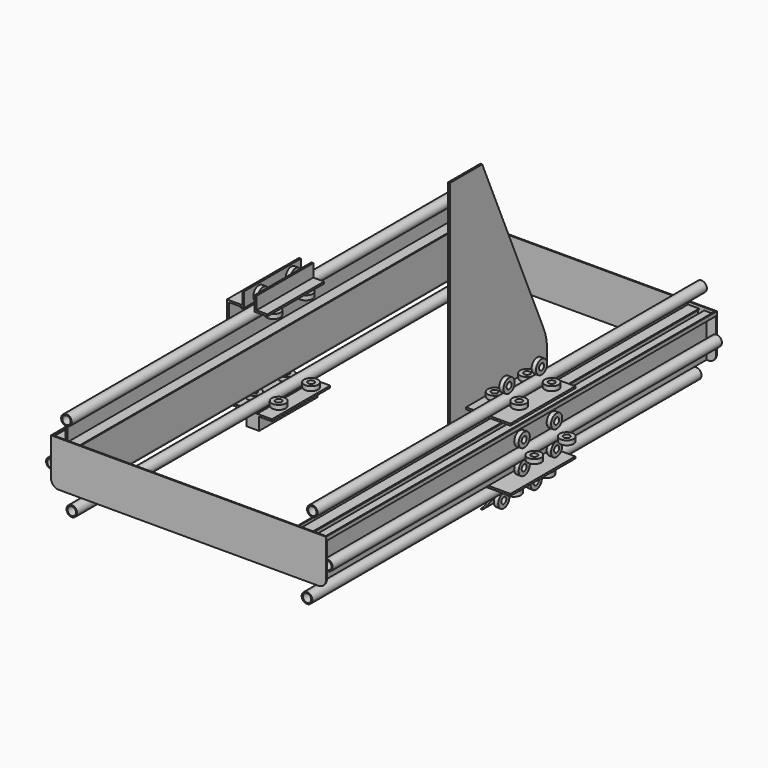
from build123d import *

# Parameters (mm, degrees)
F1_DEPTH       = 609.6
F2_ANGLE       = 180
F5_R           = 13.335
F5_R_2         = 10.4648
F6_DEPTH       = 609.6
F14_R          = 17.5006
F14_R_2        = 7.9375
F15_DEPTH      = 5.50037
F16_R          = 17.5006
F16_R_2        = 7.9375
F17_DEPTH      = 5.50037
F18_R          = 17.5006
F18_R_2        = 7.9375
F19_DEPTH      = 5.50037
F20_R          = 17.5006
F20_R_2        = 7.9375
F21_DEPTH      = 5.50037
F22_R          = 17.5006
F22_R_2        = 7.9375
F23_DEPTH      = 5.50037
F24_R          = 17.5006
F24_R_2        = 7.9375
F25_DEPTH      = 5.50037
F26_ANGLE      = 180
F29_DEPTH      = 2.667
F35_DEPTH      = 4.7498
F36_W          = 203.2
F36_H          = 4.7498
F37_DEPTH      = 111.252
F38_W          = 4.7498
F38_H          = 31.9120670426
F39_DEPTH      = 139.7
F39_DEPTH_BACK = 38.1
F38_H_2        = 31.6049997988
F41_DEPTH      = 3.048
F42_W          = 1219.2
F42_H          = 36.9030249949
F43_DEPTH      = 4.7498
F44_W          = 46.355
F44_H          = 1219.2
F45_DEPTH      = 3.048
F47_DEPTH      = 4.7498


with BuildPart() as f1:
    # F0 (on Front) → F1 (new body, symmetric)
    with BuildSketch(Plane.XZ):
        Polygon((317.70390131, 12.7), (317.70390131, 114.046), (315.16390131, 114.046), (315.16390131, 107.188), (290.39890131, 107.188), (287.35090131, 107.188), (287.35090131, 104.648), (290.39890131, 104.648), (290.39890131, 92.2401), (271.34890131, 92.2401), (271.34890131, 104.648), (274.39690131, 104.648), (274.39690131, 107.188), (271.34890131, 107.188), (247.21890131, 107.188), (247.21890131, 114.046), (244.67890131, 114.046), (244.67890131, 104.648), (268.80890131, 104.648), (268.80890131, 0), (271.34890131, 0), (271.34890131, 12.7), (297.68870131, 12.7), (297.68870131, 15.24), (294.64070131, 15.24), (294.64070131, 27.6479), (313.69070131, 27.6479), (313.69070131, 15.24), (310.64270131, 15.24), (310.64270131, 12.7), align=None)
        Polygon((292.93890131, 104.648), (315.16390131, 104.648), (315.16390131, 30.1879), (292.10070131, 30.1879), (292.10070131, 15.24), (271.34890131, 15.24), (271.34890131, 89.7001), (292.93890131, 89.7001), align=None, mode=Mode.SUBTRACT)
    extrude(amount=F1_DEPTH, both=True)


with BuildPart() as f1_1:
    # F2: moved
    add(f1.part.rotate(Axis((294.64070131, -609.6, 21.44395), (0, 0, 1)), F2_ANGLE))


with BuildPart() as f1_2:
    # F3: moved
    add(f1_1.part.moved(Location((0, 1219.2, 0))))


with BuildPart() as f4_1:
    # F4: instance of F1
    add(f1_2.part.mirror(Plane.YZ))


with BuildPart() as f6:
    # F5 (on Front) → F6 (new body, symmetric)
    with BuildSketch(Plane.XZ):
        with Locations((-345.87250131, 50.673)):
            Circle(F5_R)
        with Locations((-345.87250131, 50.673)):
            Circle(F5_R_2, mode=Mode.SUBTRACT)
    extrude(amount=F6_DEPTH, both=True)


with BuildPart() as f6b:
    # F5 (on Front) → F6, piece 2 (new body, symmetric)
    with BuildSketch(Plane.XZ):
        with Locations((-294.75500131, -38.1)):
            Circle(F5_R)
        with Locations((-294.75500131, -38.1)):
            Circle(F5_R_2, mode=Mode.SUBTRACT)
    extrude(amount=F6_DEPTH, both=True)


with BuildPart() as f6c:
    # F5 (on Front) → F6, piece 3 (new body, symmetric)
    with BuildSketch(Plane.XZ):
        with Locations((-308.09000131, 157.988)):
            Circle(F5_R)
        with Locations((-308.09000131, 157.988)):
            Circle(F5_R_2, mode=Mode.SUBTRACT)
    extrude(amount=F6_DEPTH, both=True)


with BuildPart() as f15:
    # F14 (on line) → F15 (new body, symmetric)
    with BuildSketch(Plane.XY.offset(-38.1)):
        with Locations((-325.59060131, 0)):
            Circle(F14_R)
        with Locations((-325.59060131, 0)):
            Circle(F14_R_2, mode=Mode.SUBTRACT)
    extrude(amount=F15_DEPTH, both=True)


with BuildPart() as f15b:
    # F14 (on line) → F15, piece 2 (new body, symmetric)
    with BuildSketch(Plane.XY.offset(-38.1)):
        with Locations((-263.91940131, 0)):
            Circle(F14_R)
        with Locations((-263.91940131, 0)):
            Circle(F14_R_2, mode=Mode.SUBTRACT)
    extrude(amount=F15_DEPTH, both=True)


with BuildPart() as f17:
    # F16 (on line) → F17 (new body, symmetric)
    with BuildSketch(Plane(origin=(-294.75500131, 0, 0), x_dir=(0, -1, 0), z_dir=(-1, 0, 0))):
        with Locations((0, -68.9356)):
            Circle(F16_R)
        with Locations((0, -68.9356)):
            Circle(F16_R_2, mode=Mode.SUBTRACT)
    extrude(amount=F17_DEPTH, both=True)


with BuildPart() as f19:
    # F18 (on line) → F19 (new body, symmetric)
    with BuildSketch(Plane(origin=(-345.87250131, 0, 0), x_dir=(0, -1, 0), z_dir=(-1, 0, 0))):
        with Locations((0, 81.5086)):
            Circle(F18_R)
        with Locations((0, 81.5086)):
            Circle(F18_R_2, mode=Mode.SUBTRACT)
    extrude(amount=F19_DEPTH, both=True)


with BuildPart() as f19b:
    # F18 (on line) → F19, piece 2 (new body, symmetric)
    with BuildSketch(Plane(origin=(-345.87250131, 0, 0), x_dir=(0, -1, 0), z_dir=(-1, 0, 0))):
        with Locations((0, 19.8374)):
            Circle(F18_R)
        with Locations((0, 19.8374)):
            Circle(F18_R_2, mode=Mode.SUBTRACT)
    extrude(amount=F19_DEPTH, both=True)


with BuildPart() as f21:
    # F20 (on line) → F21 (new body, symmetric)
    with BuildSketch(Plane.XY.offset(50.673)):
        with Locations((-315.03690131, 0)):
            Circle(F20_R)
        with Locations((-315.03690131, 0)):
            Circle(F20_R_2, mode=Mode.SUBTRACT)
    extrude(amount=F21_DEPTH, both=True)


with BuildPart() as f23:
    # F22 (on line) → F23 (new body, symmetric)
    with BuildSketch(Plane.XY.offset(157.988)):
        with Locations((-277.25440131, 0)):
            Circle(F22_R)
        with Locations((-277.25440131, 0)):
            Circle(F22_R_2, mode=Mode.SUBTRACT)
    extrude(amount=F23_DEPTH, both=True)


with BuildPart() as f23b:
    # F22 (on line) → F23, piece 2 (new body, symmetric)
    with BuildSketch(Plane.XY.offset(157.988)):
        with Locations((-338.92560131, 0)):
            Circle(F22_R)
        with Locations((-338.92560131, 0)):
            Circle(F22_R_2, mode=Mode.SUBTRACT)
    extrude(amount=F23_DEPTH, both=True)


with BuildPart() as f25:
    # F24 (on line) → F25 (new body, symmetric)
    with BuildSketch(Plane.YZ.offset(-308.09000131)):
        with Locations((0, 188.8236)):
            Circle(F24_R)
        with Locations((0, 188.8236)):
            Circle(F24_R_2, mode=Mode.SUBTRACT)
    extrude(amount=F25_DEPTH, both=True)


with BuildPart() as f21_1:
    # F26: moved
    add(f21.part.rotate(Axis((-345.87250131, -609.6, 50.673), (0, -1, 0)), F26_ANGLE))


with BuildPart() as f19_1:
    # F26: moved
    add(f19.part.rotate(Axis((-345.87250131, -609.6, 50.673), (0, -1, 0)), F26_ANGLE))


with BuildPart() as f19b_1:
    # F26: moved
    add(f19b.part.rotate(Axis((-345.87250131, -609.6, 50.673), (0, -1, 0)), F26_ANGLE))


with BuildPart() as f27_1:
    # F27: instance of F6c
    add(f6c.part.mirror(Plane.YZ))


with BuildPart() as f27_2:
    # F27: instance of F23
    add(f23.part.mirror(Plane.YZ))


with BuildPart() as f27_3:
    # F27: instance of F25
    add(f25.part.mirror(Plane.YZ))


with BuildPart() as f27_4:
    # F27: instance of F23b
    add(f23b.part.mirror(Plane.YZ))


with BuildPart() as f27_5:
    # F27: instance of F21
    add(f21_1.part.mirror(Plane.YZ))


with BuildPart() as f27_6:
    # F27: instance of F19
    add(f19_1.part.mirror(Plane.YZ))


with BuildPart() as f27_7:
    # F27: instance of F6
    add(f6.part.mirror(Plane.YZ))


with BuildPart() as f27_8:
    # F27: instance of F15
    add(f15.part.mirror(Plane.YZ))


with BuildPart() as f27_9:
    # F27: instance of F15b
    add(f15b.part.mirror(Plane.YZ))


with BuildPart() as f27_10:
    # F27: instance of F19b
    add(f19b_1.part.mirror(Plane.YZ))


with BuildPart() as f27_11:
    # F27: instance of F17
    add(f17.part.mirror(Plane.YZ))


with BuildPart() as f27_12:
    # F27: instance of F6b
    add(f6b.part.mirror(Plane.YZ))


with BuildPart() as f29:
    # F28 (on face) → F29 (new body)
    with BuildSketch(Plane(origin=(0, 609.6, 0), x_dir=(-1, 0, 0), z_dir=(0, 1, 0))):
        with BuildLine():
            Line((344.60250131, 19.05), (344.60250131, 114.046))
            Line((344.60250131, 114.046), (-344.60250131, 114.046))
            Line((-344.60250131, 114.046), (-344.60250131, 19.05))
            ThreePointArc((-344.60250131, 19.05), (-339.0228854916, 5.5796158184), (-325.55250131, 0))
            Line((-325.55250131, 0), (325.55250131, 0))
            ThreePointArc((325.55250131, 0), (339.0228854916, 5.5796158184), (344.60250131, 19.05))
        make_face()
    extrude(amount=F29_DEPTH)


with BuildPart() as f30_1:
    # F30: instance of F29
    add(f29.part.mirror(Plane.XZ))


with BuildPart() as f32_1:
    # F32: instance of F27_5
    add(f27_5.part.mirror(Plane.XZ.offset(-50.8)))


with BuildPart() as f32_2:
    # F32: instance of F27_10
    add(f27_10.part.mirror(Plane.XZ.offset(-50.8)))


with BuildPart() as f32_3:
    # F32: instance of F27_4
    add(f27_4.part.mirror(Plane.XZ.offset(-50.8)))


with BuildPart() as f32_4:
    # F32: instance of F27_3
    add(f27_3.part.mirror(Plane.XZ.offset(-50.8)))


with BuildPart() as f32_5:
    # F32: instance of F27_2
    add(f27_2.part.mirror(Plane.XZ.offset(-50.8)))


with BuildPart() as f32_6:
    # F32: instance of F27_8
    add(f27_8.part.mirror(Plane.XZ.offset(-50.8)))


with BuildPart() as f32_7:
    # F32: instance of F27_6
    add(f27_6.part.mirror(Plane.XZ.offset(-50.8)))


with BuildPart() as f32_8:
    # F32: instance of F27_9
    add(f27_9.part.mirror(Plane.XZ.offset(-50.8)))


with BuildPart() as f32_9:
    # F32: instance of F27_11
    add(f27_11.part.mirror(Plane.XZ.offset(-50.8)))


with BuildPart() as f32_10:
    # F32: instance of F17
    add(f17.part.mirror(Plane.XZ.offset(-50.8)))


with BuildPart() as f32_11:
    # F32: instance of F15b
    add(f15b.part.mirror(Plane.XZ.offset(-50.8)))


with BuildPart() as f32_12:
    # F32: instance of F23
    add(f23.part.mirror(Plane.XZ.offset(-50.8)))


with BuildPart() as f32_13:
    # F32: instance of F25
    add(f25.part.mirror(Plane.XZ.offset(-50.8)))


with BuildPart() as f32_14:
    # F32: instance of F15
    add(f15.part.mirror(Plane.XZ.offset(-50.8)))


with BuildPart() as f32_15:
    # F32: instance of F19
    add(f19_1.part.mirror(Plane.XZ.offset(-50.8)))


with BuildPart() as f32_16:
    # F32: instance of F21
    add(f21_1.part.mirror(Plane.XZ.offset(-50.8)))


with BuildPart() as f32_17:
    # F32: instance of F19b
    add(f19b_1.part.mirror(Plane.XZ.offset(-50.8)))


with BuildPart() as f32_18:
    # F32: instance of F23b
    add(f23b.part.mirror(Plane.XZ.offset(-50.8)))


with BuildPart() as f35:
    # F34 (on offset) → F35 (new body)
    with BuildSketch(Plane(origin=(246.17750131, 0, 0), x_dir=(0, -1, 0), z_dir=(-1, 0, 0))):
        with BuildLine():
            Line((-12.6001015009, -104.8917878147), (-50.8, -91.5054243634))
            Line((-50.8, -91.5054243634), (-88.9998984991, -104.8917878147))
            ThreePointArc((-88.9998984991, -104.8917878147), (-95.2094114411, -106.4958233469), (-101.6, -107.0356))
            Line((-101.6, -107.0356), (0, -107.0356))
            ThreePointArc((0, -107.0356), (-6.3905885589, -106.4958233469), (-12.6001015009, -104.8917878147))
        make_face()
    extrude(amount=F35_DEPTH)


with BuildPart() as f35b:
    # F34 (on offset) → F35, piece 2 (new body)
    with BuildSketch(Plane(origin=(246.17750131, 0, 0), x_dir=(0, -1, 0), z_dir=(-1, 0, 0))):
        with BuildLine():
            Line((-203.2, 163.4211093187), (-203.2, -11.0797236063))
            ThreePointArc((-203.2, -11.0797236063), (-196.1779171373, -33.119983732), (-177.7001015009, -47.0359114211))
            Line((-177.7001015009, -47.0359114211), (-50.8, -91.5054243634))
            Line((-50.8, -91.5054243634), (76.1001015009, -47.0359114211))
            ThreePointArc((76.1001015009, -47.0359114211), (94.5779171373, -33.119983732), (101.6, -11.0797236063))
            Line((101.6, -11.0797236063), (101.6, 654.9644))
            Line((101.6, 654.9644), (0, 654.9644))
            Line((0, 654.9644), (-192.5740532523, 214.2746217798))
            ThreePointArc((-192.5740532523, 214.2746217798), (-200.5151333568, 189.3970138935), (-203.2, 163.4211093187))
        make_face()
    extrude(amount=F35_DEPTH)


with BuildPart() as f37:
    # F36 (on face) → F37 (new body)
    with BuildSketch(Plane.YZ.offset(246.17750131)):
        with Locations((50.8, 137.41273)):
            Rectangle(F36_W, F36_H)
    extrude(amount=F37_DEPTH)


with BuildPart() as f37b:
    # F36 (on face) → F37, piece 2 (new body)
    with BuildSketch(Plane.YZ.offset(246.17750131)):
        with Locations((50.8, -17.52473)):
            Rectangle(F36_W, F36_H)
    extrude(amount=F37_DEPTH)


with BuildPart() as f39:
    # F38 (on Front) → F39 (new body, two sides)
    with BuildSketch(Plane.XZ) as f39_sk:
        with Locations((-291.3866215778, 190.3681664787)):
            Rectangle(F38_W, F38_H)
        Polygon((-289.0117215778, 174.4121329574), (-293.7615215778, 174.4121329574), (-293.7615215778, 169.6623329574), (-261.872096978, 169.6623329574), (-261.872096978, 174.4121329574), align=None)
    extrude(amount=-F39_DEPTH)
    extrude(f39_sk.sketch, amount=F39_DEPTH_BACK)


with BuildPart() as f39b:
    # F38 (on Front) → F39, piece 2 (new body, two sides)
    with BuildSketch(Plane.XZ) as f39_2_sk:
        with Locations((-322.1392342674, 190.3681664787)):
            Rectangle(F38_W, F38_H)
        Polygon((-319.7643342674, 169.6623329574), (-319.7643342674, 174.4121329574), (-324.5141342674, 174.4121329574), (-358.3650887012, 174.4121329574), (-358.3650887012, 169.6623329574), align=None)
        Polygon((-358.3650887012, 169.6623329574), (-358.3650887012, 174.4121329574), (-363.1148887012, 174.4121329574), (-363.1148887012, 66.2170280998), (-358.3650887012, 66.2170280998), align=None)
        Polygon((-358.3650887012, 61.4672280998), (-358.3650887012, 66.2170280998), (-363.1148887012, 66.2170280998), (-402.5393577274, 66.2170280998), (-402.5393577274, 61.4672280998), align=None)
        Polygon((-402.5393577274, 61.4672280998), (-402.5393577274, 66.2170280998), (-407.2891577274, 66.2170280998), (-407.2891577274, 35.1289719002), (-402.5393577274, 35.1289719002), (-402.5393577274, 39.8787719002), align=None)
        Polygon((-358.3650887012, 39.8787719002), (-402.5393577274, 39.8787719002), (-402.5393577274, 35.1289719002), (-363.1148887012, 35.1289719002), (-358.3650887012, 35.1289719002), align=None)
        Polygon((-358.3650887012, 35.1289719002), (-363.1148887012, 35.1289719002), (-363.1148887012, -54.8312002012), (-358.3650887012, -54.8312002012), (-358.3650887012, -50.0814002012), align=None)
        Polygon((-306.1139690984, -50.0814002012), (-358.3650887012, -50.0814002012), (-358.3650887012, -54.8312002012), (-310.8637690984, -54.8312002012), (-306.1139690984, -54.8312002012), align=None)
        with Locations((-308.4888690984, -70.6337001006)):
            Rectangle(F38_W, F38_H_2)
    extrude(amount=-F39_DEPTH)
    extrude(f39_2_sk.sketch, amount=F39_DEPTH_BACK)



with BuildPart() as f39c:
    # F38 (on Front) → F39, piece 3 (new body, two sides)
    with BuildSketch(Plane.XZ) as f39_3_sk:
        with Locations((-281.0211335215, -70.6337001006)):
            Rectangle(F38_W, F38_H_2)
        Polygon((-283.3960335215, -50.0814002012), (-283.3960335215, -54.8312002012), (-278.6462335215, -54.8312002012), (-246.4674229509, -54.8312002012), (-246.4674229509, -50.0814002012), align=None)
    extrude(amount=-F39_DEPTH)
    extrude(f39_3_sk.sketch, amount=F39_DEPTH_BACK)


with BuildPart() as f41:
    # F40 (on face) → F41 (new body)
    with BuildSketch(Plane.XY.offset(107.188)):
        with BuildLine():
            ThreePointArc((-274.11750131, 603.25), (-275.9773732494, 607.7401280605), (-280.46750131, 609.6))
            Line((-280.46750131, 609.6), (-335.71250131, 609.6))
            ThreePointArc((-335.71250131, 609.6), (-340.2026293705, 607.7401280605), (-342.06250131, 603.25))
            Line((-342.06250131, 603.25), (-342.06250131, -603.25))
            ThreePointArc((-342.06250131, -603.25), (-340.2026293705, -607.7401280605), (-335.71250131, -609.6))
            Line((-335.71250131, -609.6), (-280.46750131, -609.6))
            ThreePointArc((-280.46750131, -609.6), (-275.9773732494, -607.7401280605), (-274.11750131, -603.25))
            Line((-274.11750131, -603.25), (-274.11750131, 603.25))
        make_face()
        with BuildLine():
            Line((-305.71510131, -577.85), (-305.71510131, -590.55))
            ThreePointArc((-305.71510131, -590.55), (-308.09000131, -592.9249), (-310.46490131, -590.55))
            Line((-310.46490131, -590.55), (-310.46490131, -577.85))
            ThreePointArc((-310.46490131, -577.85), (-308.09000131, -575.4751), (-305.71510131, -577.85))
        make_face(mode=Mode.SUBTRACT)
        with BuildLine():
            Line((-305.71510131, -412.75), (-305.71510131, -425.45))
            ThreePointArc((-305.71510131, -425.45), (-308.09000131, -427.8249), (-310.46490131, -425.45))
            Line((-310.46490131, -425.45), (-310.46490131, -412.75))
            ThreePointArc((-310.46490131, -412.75), (-308.09000131, -410.3751), (-305.71510131, -412.75))
        make_face(mode=Mode.SUBTRACT)
        with BuildLine():
            Line((-305.71510131, -247.65), (-305.71510131, -260.35))
            ThreePointArc((-305.71510131, -260.35), (-308.09000131, -262.7249), (-310.46490131, -260.35))
            Line((-310.46490131, -260.35), (-310.46490131, -247.65))
            ThreePointArc((-310.46490131, -247.65), (-308.09000131, -245.2751), (-305.71510131, -247.65))
        make_face(mode=Mode.SUBTRACT)
        with BuildLine():
            Line((-305.71510131, -82.55), (-305.71510131, -95.25))
            ThreePointArc((-305.71510131, -95.25), (-308.09000131, -97.6249), (-310.46490131, -95.25))
            Line((-310.46490131, -95.25), (-310.46490131, -82.55))
            ThreePointArc((-310.46490131, -82.55), (-308.09000131, -80.1751), (-305.71510131, -82.55))
        make_face(mode=Mode.SUBTRACT)
        with BuildLine():
            Line((-305.71510131, 82.55), (-305.71510131, 69.85))
            ThreePointArc((-305.71510131, 69.85), (-308.09000131, 67.4751), (-310.46490131, 69.85))
            Line((-310.46490131, 69.85), (-310.46490131, 82.55))
            ThreePointArc((-310.46490131, 82.55), (-308.09000131, 84.9249), (-305.71510131, 82.55))
        make_face(mode=Mode.SUBTRACT)
        with BuildLine():
            Line((-305.71510131, 247.65), (-305.71510131, 234.95))
            ThreePointArc((-305.71510131, 234.95), (-308.09000131, 232.5751), (-310.46490131, 234.95))
            Line((-310.46490131, 234.95), (-310.46490131, 247.65))
            ThreePointArc((-310.46490131, 247.65), (-308.09000131, 250.0249), (-305.71510131, 247.65))
        make_face(mode=Mode.SUBTRACT)
        with BuildLine():
            Line((-305.71510131, 412.75), (-305.71510131, 400.05))
            ThreePointArc((-305.71510131, 400.05), (-308.09000131, 397.6751), (-310.46490131, 400.05))
            Line((-310.46490131, 400.05), (-310.46490131, 412.75))
            ThreePointArc((-310.46490131, 412.75), (-308.09000131, 415.1249), (-305.71510131, 412.75))
        make_face(mode=Mode.SUBTRACT)
        with BuildLine():
            Line((-305.71510131, 577.85), (-305.71510131, 565.15))
            ThreePointArc((-305.71510131, 565.15), (-308.09000131, 562.7751), (-310.46490131, 565.15))
            Line((-310.46490131, 565.15), (-310.46490131, 577.85))
            ThreePointArc((-310.46490131, 577.85), (-308.09000131, 580.2249), (-305.71510131, 577.85))
        make_face(mode=Mode.SUBTRACT)
    extrude(amount=F41_DEPTH)


with BuildPart() as f43:
    # F42 (on face) → F43 (new body)
    with BuildSketch(Plane.YZ.offset(-310.46490131)):
        with Locations((0, 125.6395124974)):
            Rectangle(F42_W, F42_H)
    extrude(amount=F43_DEPTH)


with BuildPart() as f45:
    # F44 (on face) → F45 (new body)
    with BuildSketch(Plane(origin=(0, 0, 12.7), x_dir=(1, 0, 0), z_dir=(0, 0, -1))):
        with Locations((-294.75500131, 0)):
            Rectangle(F44_W, F44_H)
    extrude(amount=F45_DEPTH)


with BuildPart() as f39b_1:
    add(f39b.part)

    add(f39c.part)  # F47 merges F39c
    # F46 (on face) → F47 (join)
    with BuildSketch(Plane.XZ.offset(38.1)):
        with BuildLine():
            Line((-246.4674229509, -54.8312002012), (-246.4674229509, -50.0814002012))
            Line((-246.4674229509, -50.0814002012), (-288.9010902909, -50.0814002012))
            ThreePointArc((-288.9010902909, -50.0814002012), (-294.75500131, -51.435), (-300.608912329, -50.0814002012))
            Line((-300.608912329, -50.0814002012), (-310.8637690984, -50.0814002012))
            Line((-310.8637690984, -50.0814002012), (-310.8637690984, -86.4362))
            Line((-310.8637690984, -86.4362), (-278.6462335215, -86.4362))
            Line((-278.6462335215, -86.4362), (-278.6462335215, -54.8312002012))
            Line((-278.6462335215, -54.8312002012), (-246.4674229509, -54.8312002012))
        make_face()
    extrude(amount=F47_DEPTH)


solid = Compound([f1_2.part, f4_1.part, f6.part, f6b.part, f6c.part, f15.part, f15b.part, f17.part, f23.part, f23b.part, f25.part, f21_1.part, f19_1.part, f19b_1.part, f27_1.part, f27_2.part, f27_3.part, f27_4.part, f27_5.part, f27_6.part, f27_7.part, f27_8.part, f27_9.part, f27_10.part, f27_11.part, f27_12.part, f29.part, f30_1.part, f32_1.part, f32_2.part, f32_3.part, f32_4.part, f32_5.part, f32_6.part, f32_7.part, f32_8.part, f32_9.part, f32_10.part, f32_11.part, f32_12.part, f32_13.part, f32_14.part, f32_15.part, f32_16.part, f32_17.part, f32_18.part, f35.part, f35b.part, f37.part, f37b.part, f39.part, f41.part, f43.part, f45.part, f39b_1.part])
